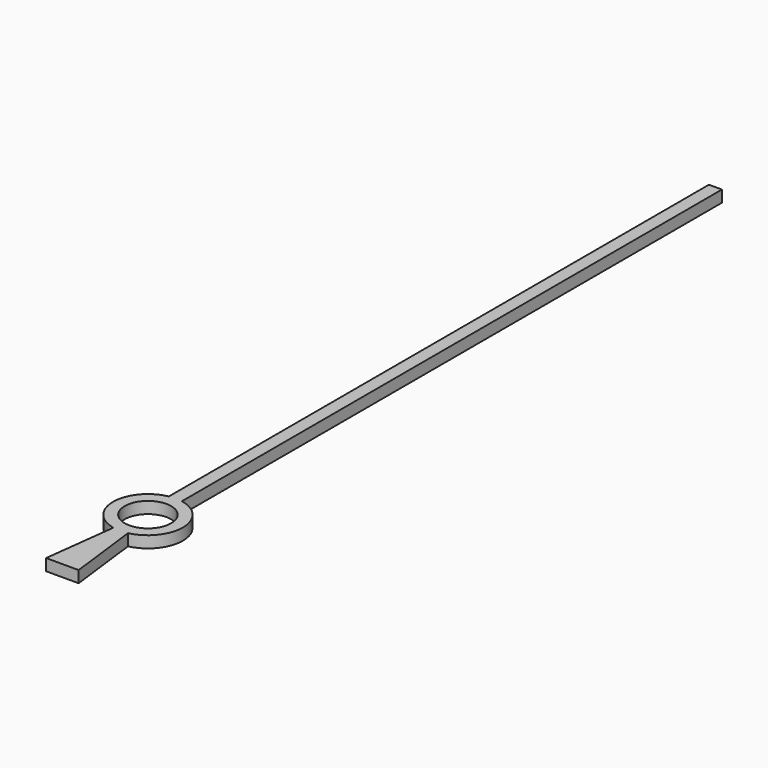
from build123d import *

# Parameters (mm, degrees)
F0_R     = 0.5
F1_DEPTH = 0.25


with BuildPart() as f1:
    # F0 (on Top) → F1 (new body)
    with BuildSketch(Plane.XY):
        with BuildLine():
            Line((0.35, -2.3), (0.157627, -0.733249))
            ThreePointArc((0.157627, -0.733249), (0.749946, 0.008992), (0.14, 0.736817))
            Line((0.14, 0.736817), (0.14, 15.25))
            Line((0.14, 15.25), (0, 15.25))
            Line((0, 15.25), (-0.14, 15.25))
            Line((-0.14, 15.25), (-0.14, 0.736817))
            ThreePointArc((-0.14, 0.736817), (-0.749946, 0.008992), (-0.157627, -0.733249))
            Line((-0.157627, -0.733249), (-0.35, -2.3))
            Line((-0.35, -2.3), (0, -2.3))
            Line((0, -2.3), (0.35, -2.3))
        make_face()
        Circle(F0_R, mode=Mode.SUBTRACT)
    extrude(amount=F1_DEPTH)


solid = f1.part
